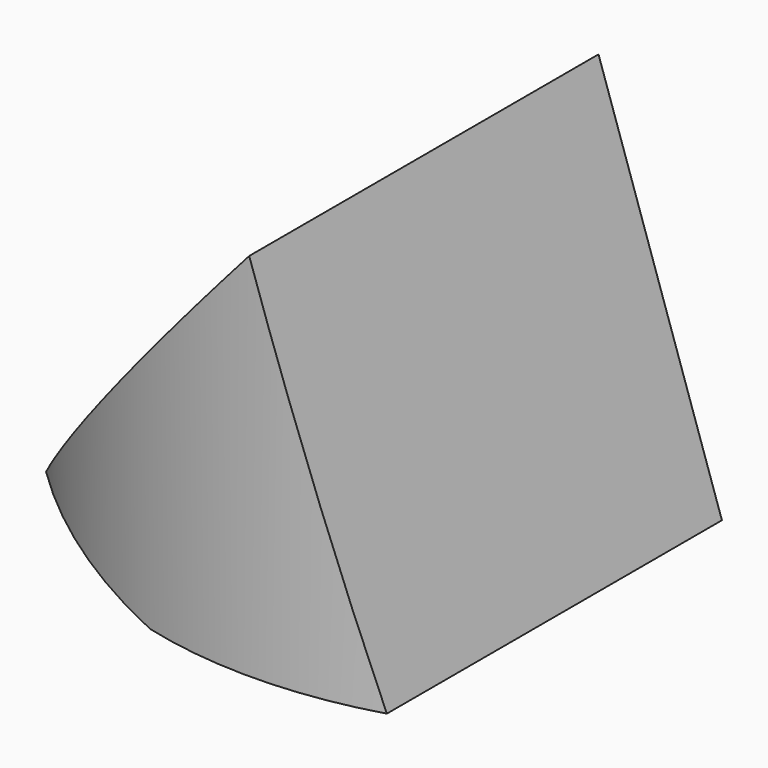
from build123d import *

# Parameters (mm, degrees)
F0_R     = 29.498818
F1_DEPTH = 25
F3_DEPTH = 42.8


with BuildPart() as f1:
    # F0 (on Top) → F1 (new body)
    with BuildSketch(Plane.XY):
        Circle(F0_R)
    extrude(amount=-F1_DEPTH)

    # F2 (on Front) → F3 (intersect)
    with BuildSketch(Plane.XZ):
        Polygon((0, 0), (-19.90077, -22.449039), (9.491053, -28.459092), align=None)
    extrude(amount=F3_DEPTH, mode=Mode.INTERSECT)


solid = f1.part
